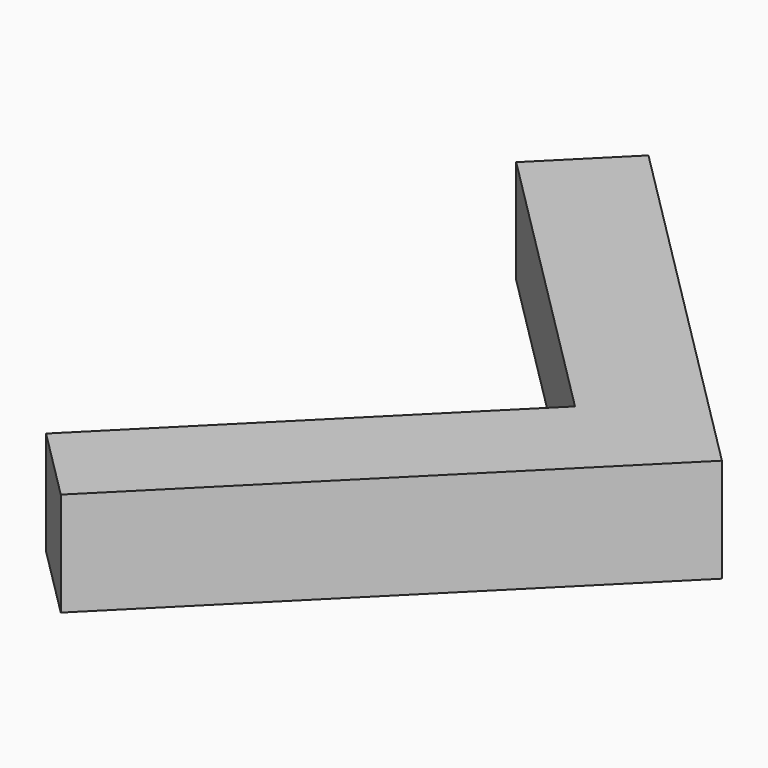
from build123d import *

# Parameters (mm, degrees)
BOX049_W               = 1
BOX049_H               = 5
BOX049_DEPTH           = 1
BOX049_PLACEMENT_ANGLE = 45
BOX048_W               = 1
BOX048_H               = 4
BOX048_DEPTH           = 1
BOX048_PLACEMENT_ANGLE = 135


with BuildPart() as cube049:
    # Box049 → Box049 (new body)
    with BuildSketch(Plane.XY):
        with Locations((0.5, 2.5)):
            Rectangle(BOX049_W, BOX049_H)
    extrude(amount=BOX049_DEPTH)


with BuildPart() as cube049_1:
    # Box049 placement: moved
    add(cube049.part.rotate(Axis((0, 0, 0), (0, 0, 1)), BOX049_PLACEMENT_ANGLE))


with BuildPart() as obj1:
    # Box048 → Box048 (new body)
    with BuildSketch(Plane.XY):
        with Locations((0.5, 2)):
            Rectangle(BOX048_W, BOX048_H)
    extrude(amount=BOX048_DEPTH)


with BuildPart() as obj1_1:
    # Box048 placement: moved
    add(obj1.part.rotate(Axis((0, 0, 0), (0, 0, 1)), BOX048_PLACEMENT_ANGLE))

    # Fusion001: union Cube049
    add(cube049_1.part)


with BuildPart() as obj1_2:
    # Fusion001 placement: moved
    add(obj1_1.part.moved(Location((16, 5, 0))))


solid = obj1_2.part
